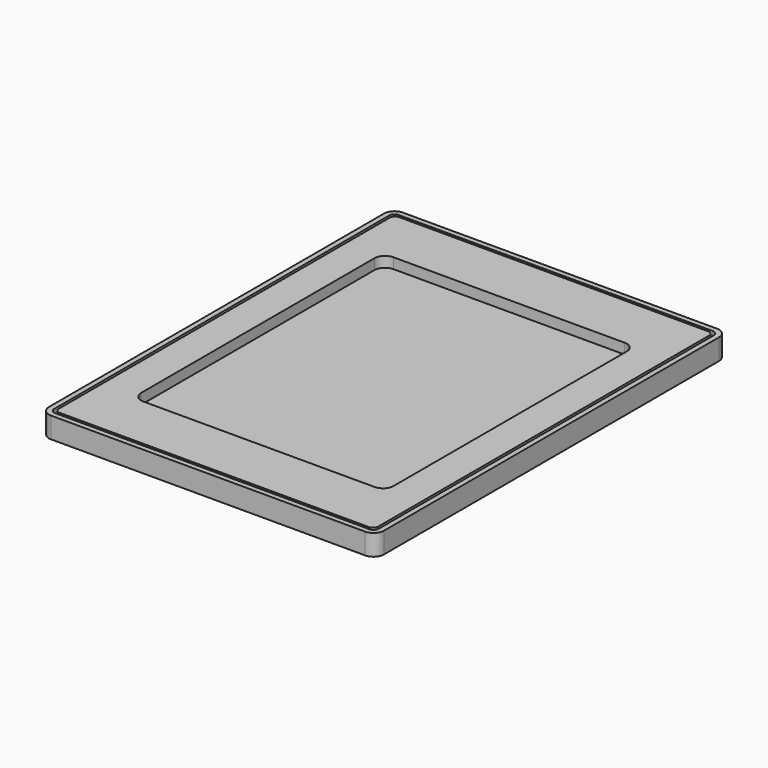
from build123d import *

# Parameters (mm, degrees)
F0_W     = 406.4
F0_H     = 533.4
F1_DEPTH = 25.4
F2_W     = 306.07
F2_H     = 379.095
F3_DEPTH = 12.7
F4_R     = 12.7
F6_DEPTH = 6.35


with BuildPart() as f1:
    # F0 (on Top) → F1 (new body)
    with BuildSketch(Plane.XY):
        Rectangle(F0_W, F0_H)
    extrude(amount=F1_DEPTH)

    # F2 (on face) → F3 (cut)
    with BuildSketch(Plane.XY.offset(25.4)):
        Rectangle(F2_W, F2_H)
    extrude(amount=-F3_DEPTH, mode=Mode.SUBTRACT)

    # F4
    f4_edges = [f1.edges().sort_by_distance(p)[0] for p in [
        (-203.2, -266.7, 12.7),
        (203.2, -266.7, 12.7),
        (203.2, 266.7, 12.7),
        (-203.2, 266.7, 12.7),
        (-153.035, 189.5475, 19.05),
        (153.035, 189.5475, 19.05),
        (153.035, -189.5475, 19.05),
        (-153.035, -189.5475, 19.05),
    ]]
    fillet(f4_edges, radius=F4_R)

    # F5 (on face) → F6 (cut)
    with BuildSketch(Plane.XY.offset(25.4)):
        with BuildLine():
            Line((-196.85, 254), (-196.85, -254))
            ThreePointArc((-196.85, -254), (-194.990128, -258.490128), (-190.5, -260.35))
            Line((-190.5, -260.35), (190.5, -260.35))
            ThreePointArc((190.5, -260.35), (194.990128, -258.490128), (196.85, -254))
            Line((196.85, -254), (196.85, 254))
            ThreePointArc((196.85, 254), (194.990128, 258.490128), (190.5, 260.35))
            Line((190.5, 260.35), (-190.5, 260.35))
            ThreePointArc((-190.5, 260.35), (-194.990128, 258.490128), (-196.85, 254))
        make_face()
        with BuildLine():
            ThreePointArc((-187.325, -257.175), (-191.815128, -255.315128), (-193.675, -250.825))
            Line((-193.675, -250.825), (-193.675, 250.825))
            ThreePointArc((-193.675, 250.825), (-191.815128, 255.315128), (-187.325, 257.175))
            Line((-187.325, 257.175), (187.325, 257.175))
            ThreePointArc((187.325, 257.175), (191.815128, 255.315128), (193.675, 250.825))
            Line((193.675, 250.825), (193.675, -250.825))
            ThreePointArc((193.675, -250.825), (191.815128, -255.315128), (187.325, -257.175))
            Line((187.325, -257.175), (-187.325, -257.175))
        make_face(mode=Mode.SUBTRACT)
    extrude(amount=-F6_DEPTH, mode=Mode.SUBTRACT)


solid = f1.part
